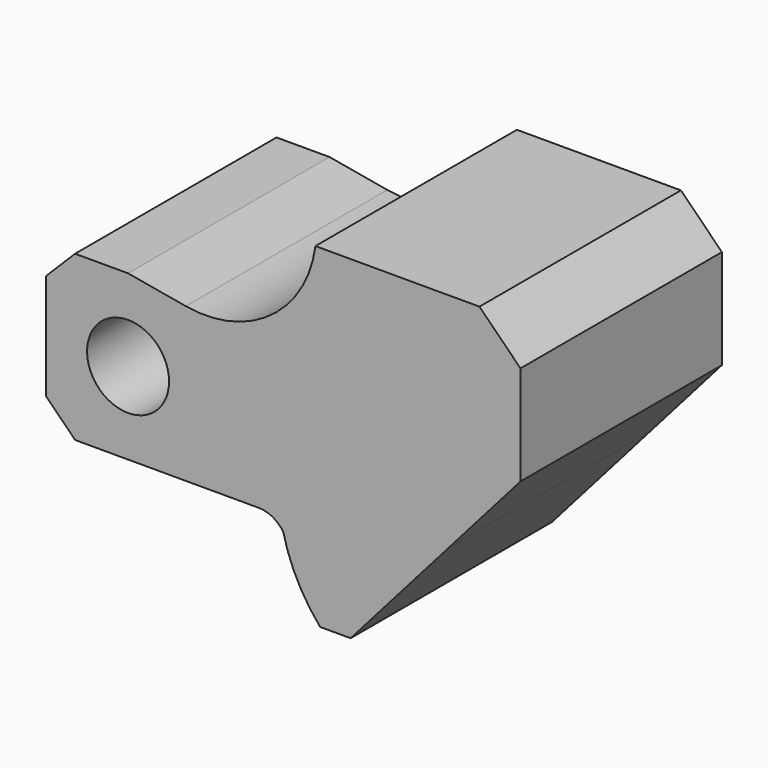
from build123d import *

# Parameters (mm, degrees)
F0_R     = 7
F1_DEPTH = 43


with BuildPart() as f1:
    # F0 (on Front) → F1 (new body)
    with BuildSketch(Plane.XZ):
        with BuildLine():
            Line((28.19697, -9.5), (40.5, 4.5))
            Line((40.5, 4.5), (40.5, 21.5))
            Line((40.5, 21.5), (33.5, 28.5))
            Line((33.5, 28.5), (5.49291, 28.5))
            ThreePointArc((5.49291, 28.5), (-2.107896, 15.653055), (-16.6447, 12.262245))
            Line((-16.6447, 12.262245), (-26.5, 14))
            Line((-26.5, 14), (-35.550253, 14))
            Line((-35.550253, 14), (-40.5, 9.050253))
            Line((-40.5, 9.050253), (-40.5, -9.050253))
            Line((-40.5, -9.050253), (-35.550253, -14))
            Line((-35.550253, -14), (-26.5, -14))
            Line((-26.5, -14), (-4.193631, -14))
            ThreePointArc((-4.193631, -14), (-1.807613, -14.606037), (0, -16.277234))
            ThreePointArc((0, -16.277234), (2.409403, -22.766552), (6.288067, -28.5))
            Line((6.288067, -28.5), (11.5, -28.5))
            Line((11.5, -28.5), (28.19697, -9.5))
        make_face()
        with Locations((-26.5, 0)):
            Circle(F0_R, mode=Mode.SUBTRACT)
    extrude(amount=F1_DEPTH)


solid = f1.part
